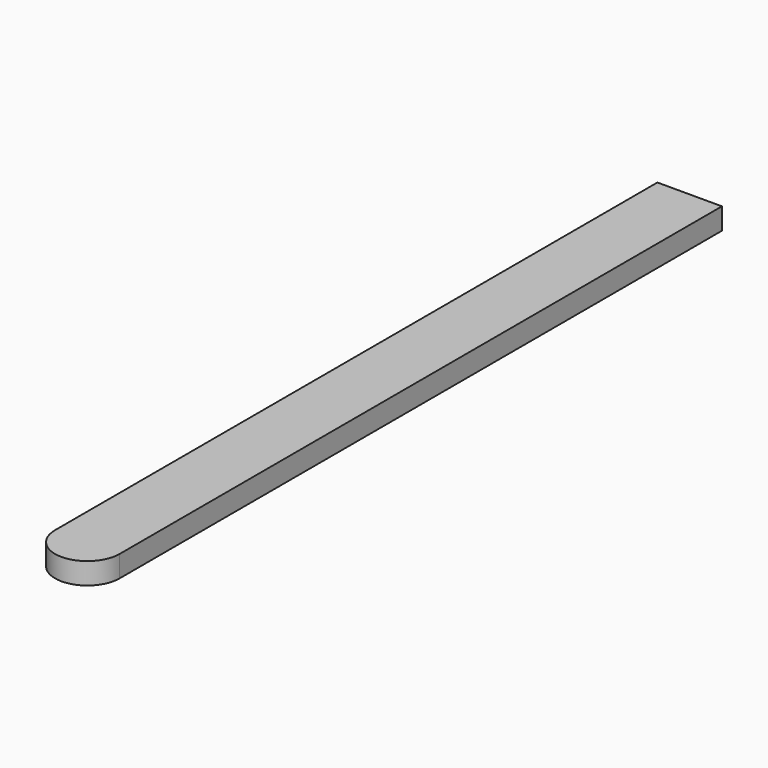
from build123d import *

# Parameters (mm, degrees)
F0_W     = 3
F0_H     = 35
F1_DEPTH = 1


with BuildPart() as f1:
    # F0 (on Top) → F1 (new body)
    with BuildSketch(Plane.XY):
        Rectangle(F0_W, F0_H)
        with BuildLine():
            ThreePointArc((-1.5, -17.5), (0, -19), (1.5, -17.5))
            Line((1.5, -17.5), (-1.5, -17.5))
        make_face()
    extrude(amount=F1_DEPTH)


solid = f1.part
